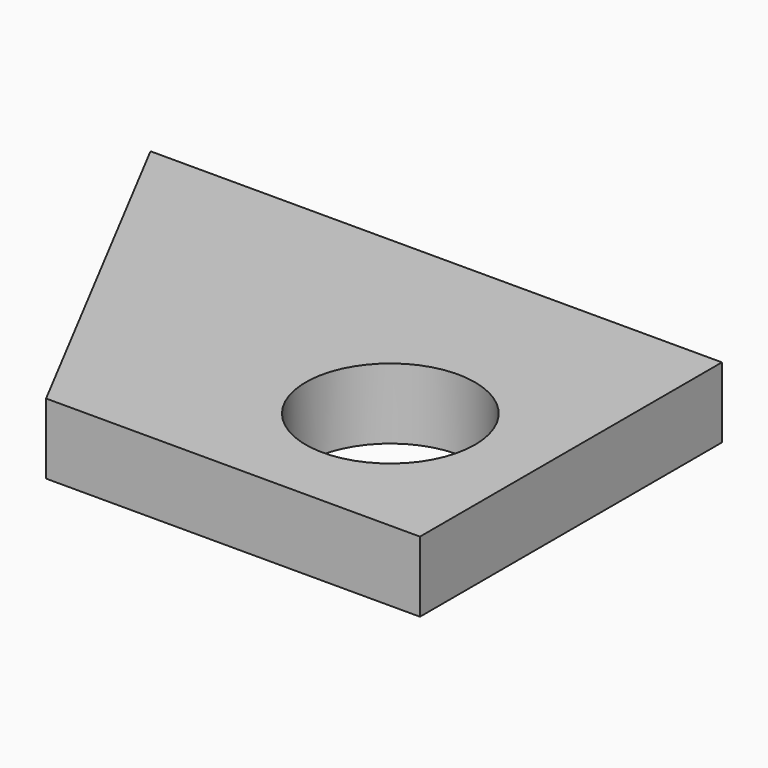
from build123d import *

# Parameters (mm, degrees)
CYLINDER021_R     = 12
CYLINDER021_DEPTH = 10
PAD003_DEPTH      = 10


with BuildPart() as cylinder021:
    # Cylinder021 → Cylinder021 (new body)
    with BuildSketch(Plane(origin=(-87.5, 2.5, 0), x_dir=(1, 0, 0), z_dir=(0, 0, 1))):
        Circle(CYLINDER021_R)
    extrude(amount=CYLINDER021_DEPTH)


with BuildPart() as right_ref:
    # Sketch003 → Pad003 (new body)
    with BuildSketch(Plane.XY):
        Polygon((-147.5, 35), (-66.5, 35), (-66.5, -18.5), (-119.5, -18.5), align=None)
    extrude(amount=PAD003_DEPTH)

    # Cut001003: cut Cylinder021
    add(cylinder021.part, mode=Mode.SUBTRACT)


solid = right_ref.part
